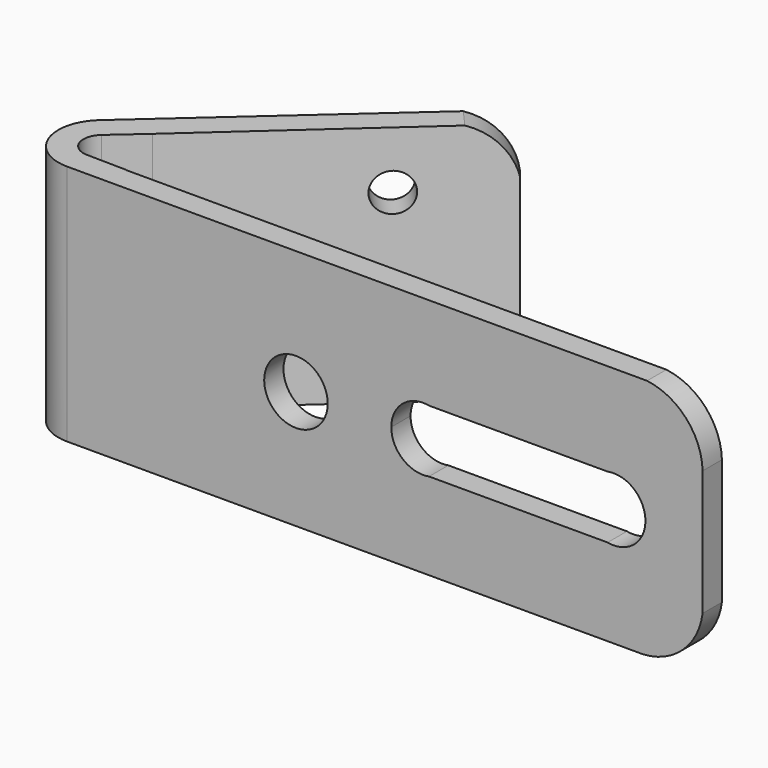
from build123d import *

# Parameters (mm, degrees)
F1_DEPTH  = 483.87
F2_DEPTH  = 483.87
F4_DEPTH  = 50.8
F6_DEPTH  = 50.8
F7_R      = 38.1
F8_DEPTH  = 50.8
F9_R      = 63.5
F10_DEPTH = 76.2
F12_DEPTH = 635


with BuildPart() as f1:
    # F0 (on Top) → F1 (new body)
    with BuildSketch(Plane.XY):
        with BuildLine():
            Line((-634.862884804, -60.9142784472), (-634.862884804, -12.6542784472))
            Line((-634.862884804, -12.6542784472), (-556.1731070353, -12.6542784472))
            ThreePointArc((-556.1731070353, -12.6542784472), (-549.0114244021, 6.7905310299), (-546.5795370493, 27.3690693075))
            ThreePointArc((-546.5795370493, 27.3690693075), (-561.1950321028, 76.0208623801), (-600.2022649901, 108.5638408442))
            ThreePointArc((-600.2022649901, 108.5638408442), (-637.9975803191, 115.5967473616), (-675.1984709822, 105.8992544496))
            Line((-675.1984709822, 105.8992544496), (-694.956899354, 92.0425484629))
            ThreePointArc((-694.956899354, 92.0425484629), (-717.0320418569, -4.9137298277), (-634.862884804, -60.9142784472))
        make_face()
        with BuildLine():
            ThreePointArc((-596.762884804, 27.3690693075), (-654.0657903767, -5.5377448435), (-653.6058463562, 60.5400112937))
            ThreePointArc((-653.6058463562, 60.5400112937), (-615.6599792314, 60.2758834585), (-596.762884804, 27.3690693075))
        make_face(mode=Mode.SUBTRACT)
        with BuildLine():
            Line((-556.1731070353, -12.6542784472), (-634.862884804, -12.6542784472))
            Line((-634.862884804, -12.6542784472), (-634.862884804, -60.9142784472))
            ThreePointArc((-634.862884804, -60.9142784472), (-588.7079589421, -47.8883044805), (-556.1731070353, -12.6542784472))
        make_face()
        with BuildLine():
            Line((635.137115196, -12.6542784472), (-556.1731070353, -12.6542784472))
            ThreePointArc((-556.1731070353, -12.6542784472), (-588.7079589421, -47.8883044805), (-634.862884804, -60.9142784472))
            Line((-634.862884804, -60.9142784472), (635.137115196, -60.9142784472))
            Line((635.137115196, -60.9142784472), (635.137115196, -12.6542784472))
        make_face()
        with BuildLine():
            Line((-692.2264455581, 94.4762327731), (-694.956899354, 92.0425484629))
            Line((-694.956899354, 92.0425484629), (-675.1984709822, 105.8992544496))
            ThreePointArc((-675.1984709822, 105.8992544496), (-684.0452209002, 100.6837834303), (-692.2264455581, 94.4762327731))
        make_face()
        with BuildLine():
            ThreePointArc((-692.2264455581, 94.4762327731), (-693.6042773982, 93.273532638), (-694.956899354, 92.0425484629))
            Line((-694.956899354, 92.0425484629), (-692.2264455581, 94.4762327731))
        make_face()
        with BuildLine():
            ThreePointArc((-675.1984709822, 105.8992544496), (-637.9975803191, 115.5967473616), (-600.2022649901, 108.5638408442))
            Line((-600.2022649901, 108.5638408442), (-173.0680713738, 492.6695353448))
            Line((-173.0680713738, 492.6695353448), (-203.0335409277, 530.4993943773))
            Line((-203.0335409277, 530.4993943773), (-692.2264455581, 94.4762327731))
            ThreePointArc((-692.2264455581, 94.4762327731), (-684.0452209002, 100.6837834303), (-675.1984709822, 105.8992544496))
        make_face()
    extrude(amount=F1_DEPTH)

    # F0 (on Top) → F2 (join)
    with BuildSketch(Plane.XY):
        with BuildLine():
            Line((-634.862884804, -60.9142784472), (-634.862884804, -12.6542784472))
            Line((-634.862884804, -12.6542784472), (-556.1731070353, -12.6542784472))
            ThreePointArc((-556.1731070353, -12.6542784472), (-549.0114244021, 6.7905310299), (-546.5795370493, 27.3690693075))
            ThreePointArc((-546.5795370493, 27.3690693075), (-561.1950321028, 76.0208623801), (-600.2022649901, 108.5638408442))
            ThreePointArc((-600.2022649901, 108.5638408442), (-637.9975803191, 115.5967473616), (-675.1984709822, 105.8992544496))
            Line((-675.1984709822, 105.8992544496), (-694.956899354, 92.0425484629))
            ThreePointArc((-694.956899354, 92.0425484629), (-717.0320418569, -4.9137298277), (-634.862884804, -60.9142784472))
        make_face()
        with BuildLine():
            ThreePointArc((-596.762884804, 27.3690693075), (-654.0657903767, -5.5377448435), (-653.6058463562, 60.5400112937))
            ThreePointArc((-653.6058463562, 60.5400112937), (-615.6599792314, 60.2758834585), (-596.762884804, 27.3690693075))
        make_face(mode=Mode.SUBTRACT)
        with BuildLine():
            Line((-556.1731070353, -12.6542784472), (-634.862884804, -12.6542784472))
            Line((-634.862884804, -12.6542784472), (-634.862884804, -60.9142784472))
            ThreePointArc((-634.862884804, -60.9142784472), (-588.7079589421, -47.8883044805), (-556.1731070353, -12.6542784472))
        make_face()
        with BuildLine():
            Line((635.137115196, -12.6542784472), (-556.1731070353, -12.6542784472))
            ThreePointArc((-556.1731070353, -12.6542784472), (-588.7079589421, -47.8883044805), (-634.862884804, -60.9142784472))
            Line((-634.862884804, -60.9142784472), (635.137115196, -60.9142784472))
            Line((635.137115196, -60.9142784472), (635.137115196, -12.6542784472))
        make_face()
        with BuildLine():
            Line((-692.2264455581, 94.4762327731), (-694.956899354, 92.0425484629))
            Line((-694.956899354, 92.0425484629), (-675.1984709822, 105.8992544496))
            ThreePointArc((-675.1984709822, 105.8992544496), (-684.0452209002, 100.6837834303), (-692.2264455581, 94.4762327731))
        make_face()
        with BuildLine():
            ThreePointArc((-692.2264455581, 94.4762327731), (-693.6042773982, 93.273532638), (-694.956899354, 92.0425484629))
            Line((-694.956899354, 92.0425484629), (-692.2264455581, 94.4762327731))
        make_face()
        with BuildLine():
            ThreePointArc((-675.1984709822, 105.8992544496), (-637.9975803191, 115.5967473616), (-600.2022649901, 108.5638408442))
            Line((-600.2022649901, 108.5638408442), (-173.0680713738, 492.6695353448))
            Line((-173.0680713738, 492.6695353448), (-203.0335409277, 530.4993943773))
            Line((-203.0335409277, 530.4993943773), (-692.2264455581, 94.4762327731))
            ThreePointArc((-692.2264455581, 94.4762327731), (-684.0452209002, 100.6837834303), (-675.1984709822, 105.8992544496))
        make_face()
    extrude(amount=F2_DEPTH)

    # F3 (on face) → F4 (cut)
    with BuildSketch(Plane(origin=(-353.3908608831, 396.4842167311, 0), x_dir=(-0.7465106955, -0.6653734151, 0), z_dir=(-0.6653734151, 0.7465106955, 0))):
        with BuildLine():
            ThreePointArc((-112.7163544297, 0), (-170.8315172722, 36.574359485), (-201.4134839174, 98.0544313788))
            Line((-201.4134839174, 98.0544313788), (-201.4134839174, 0))
            Line((-201.4134839174, 0), (-112.7163544297, 0))
        make_face()
        with BuildLine():
            Line((-201.4134839174, 483.87), (-201.4134839174, 376.6429126263))
            ThreePointArc((-201.4134839174, 376.6429126263), (-173.0583201372, 443.4860309567), (-112.7163544297, 483.87))
            Line((-112.7163544297, 483.87), (-201.4134839174, 483.87))
        make_face()
    extrude(amount=-F4_DEPTH, mode=Mode.SUBTRACT)

    # F5 (on face) → F6 (cut)
    with BuildSketch(Plane.XZ.offset(60.9142784472)):
        with BuildLine():
            Line((635.137115196, 0), (635.137115196, 110.7464699671))
            ThreePointArc((635.137115196, 110.7464699671), (595.8393127678, 33.9689040087), (516.5598988533, 0))
            Line((516.5598988533, 0), (635.137115196, 0))
        make_face()
        with BuildLine():
            ThreePointArc((524.1865515709, 483.87), (602.2885378872, 443.1693633222), (635.137115196, 361.4538013935))
            Line((635.137115196, 361.4538013935), (635.137115196, 483.87))
            Line((635.137115196, 483.87), (524.1865515709, 483.87))
        make_face()
    extrude(amount=-F6_DEPTH, mode=Mode.SUBTRACT)

    # F7 (on face) → F8 (cut)
    with BuildSketch(Plane(origin=(-353.3908608831, 396.4842167311, 0), x_dir=(-0.7465106955, -0.6653734151, 0), z_dir=(-0.6653734151, 0.7465106955, 0))):
        with Locations((0, 369.57)):
            Circle(F7_R)
        with Locations((0, 109.4054887733)):
            Circle(F7_R)
    extrude(amount=-F8_DEPTH, mode=Mode.SUBTRACT)

    # F9 (on face) → F10 (cut)
    with BuildSketch(Plane(origin=(0, -12.6542784472, 0), x_dir=(-1, 0, 0), z_dir=(0, 1, 0))):
        with BuildLine():
            Line((-76.337115196, 173.7487316132), (-76.337115196, 298.4515397475))
            Line((-76.337115196, 298.4515397475), (-88.3601102827, 298.4515397475))
            ThreePointArc((-88.3601102827, 298.4515397475), (-139.837115196, 236.1001356803), (-88.3601102827, 173.7487316132))
            Line((-88.3601102827, 173.7487316132), (-76.337115196, 173.7487316132))
        make_face()
        with BuildLine():
            Line((-88.3601102827, 298.4515397475), (-76.337115196, 298.4515397475))
            Line((-76.337115196, 298.4515397475), (-76.337115196, 173.7487316132))
            Line((-76.337115196, 173.7487316132), (-88.3601102827, 173.7487316132))
            ThreePointArc((-88.3601102827, 173.7487316132), (-35.9094649304, 187.1322370731), (-12.837115196, 236.1001356803))
            ThreePointArc((-12.837115196, 236.1001356803), (-35.9094649304, 285.0680342875), (-88.3601102827, 298.4515397475))
        make_face()
        with BuildLine():
            Line((-457.337115196, 298.4515397475), (-445.3141201093, 298.4515397475))
            ThreePointArc((-445.3141201093, 298.4515397475), (-520.837115196, 236.1001356803), (-445.3141201093, 173.7487316132))
            Line((-445.3141201093, 173.7487316132), (-457.337115196, 173.7487316132))
            Line((-457.337115196, 173.7487316132), (-457.337115196, 298.4515397475))
        make_face()
        with BuildLine():
            ThreePointArc((-393.837115196, 236.1001356803), (-408.3692165888, 276.5277859459), (-445.3141201093, 298.4515397475))
            Line((-445.3141201093, 298.4515397475), (-457.337115196, 298.4515397475))
            Line((-457.337115196, 298.4515397475), (-457.337115196, 173.7487316132))
            Line((-457.337115196, 173.7487316132), (-445.3141201093, 173.7487316132))
            ThreePointArc((-445.3141201093, 173.7487316132), (-408.3692165888, 195.6724854147), (-393.837115196, 236.1001356803))
        make_face()
        with BuildLine():
            ThreePointArc((-88.3601102827, 173.7487316132), (-139.837115196, 236.1001356803), (-88.3601102827, 298.4515397475))
            Line((-88.3601102827, 298.4515397475), (-445.3141201093, 298.4515397475))
            ThreePointArc((-445.3141201093, 298.4515397475), (-408.3692165888, 276.5277859459), (-393.837115196, 236.1001356803))
            ThreePointArc((-393.837115196, 236.1001356803), (-408.3692165888, 195.6724854147), (-445.3141201093, 173.7487316132))
            Line((-445.3141201093, 173.7487316132), (-88.3601102827, 173.7487316132))
        make_face()
        with Locations((177.662884804, 236.1001356803)):
            Circle(F9_R)
    extrude(amount=-F10_DEPTH, mode=Mode.SUBTRACT)

    # F11 (on face) → F12 (cut)
    with BuildSketch(Plane.XY.offset(483.87)):
        Polygon((-518.1578993797, 89.6325483918), (-600.2022649901, 108.5638408442), (-660.0170895818, 55.9850784981), (-635.4890244176, -10.7257853212), (-518.1578993797, -12.6542784472), align=None)
    extrude(amount=-F12_DEPTH, mode=Mode.SUBTRACT)


solid = f1.part
